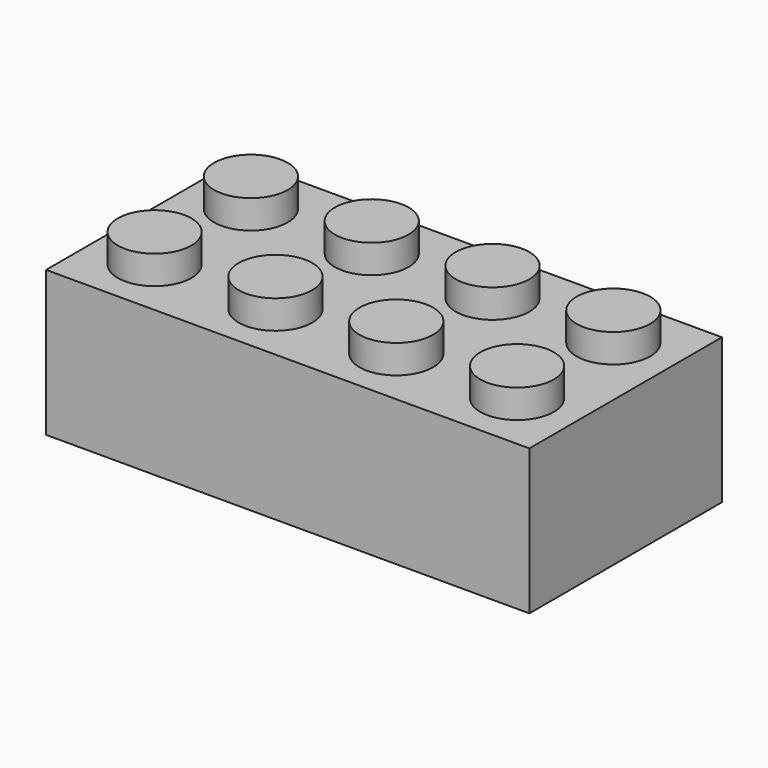
from build123d import *

# Parameters (mm, degrees)
F0_W     = 31.7754
F0_H     = 15.8242
F1_DEPTH = 9.5504
F2_R     = 2.420309
F3_DEPTH = 1.8796
F5_DEPTH = 6.477
F6_R     = 3.709792
F7_DEPTH = 6.477
F8_R     = 1.277131
F9_DEPTH = 0.0508


with BuildPart() as f1:
    # F0 (on Top) → F1 (new body)
    with BuildSketch(Plane.XY):
        Rectangle(F0_W, F0_H)
    extrude(amount=F1_DEPTH)

    # F2 (on face) → F3 (join)
    with BuildSketch(Plane.XY.offset(9.5504)):
        with Locations((-11.915775, 3.95605)):
            Circle(F2_R)
        with Locations((-3.971925, 3.95605)):
            Circle(F2_R)
        with Locations((3.971925, 3.95605)):
            Circle(F2_R)
        with Locations((11.915775, 3.95605)):
            Circle(F2_R)
        with Locations((11.915775, -3.95605)):
            Circle(F2_R)
        with Locations((3.971925, -3.95605)):
            Circle(F2_R)
        with Locations((-3.971925, -3.95605)):
            Circle(F2_R)
        with Locations((-11.915775, -3.95605)):
            Circle(F2_R)
    extrude(amount=F3_DEPTH)

    # F4 (on face) → F5 (cut)
    with BuildSketch(Plane(origin=(0, 0, 0), x_dir=(1, 0, 0), z_dir=(0, 0, -1))):
        Polygon((14.626832, 6.675115), (-12.304062, 6.675115), (-14.626832, 6.675115), (-14.626832, -6.675115), (14.626832, -6.675115), align=None)
    extrude(amount=-F5_DEPTH, mode=Mode.SUBTRACT)

    # F6 (on face) → F7 (join)
    with BuildSketch(Plane(origin=(0, 0, 6.477), x_dir=(1, 0, 0), z_dir=(0, 0, -1))):
        with Locations((-9.168312, 0)):
            Circle(F6_R)
        with BuildLine():
            ThreePointArc((0, -3.709792), (2.623219, -2.623219), (3.709792, 0))
            ThreePointArc((3.709792, 0), (2.623219, 2.623219), (0, 3.709792))
            ThreePointArc((0, 3.709792), (-3.709792, 0), (0, -3.709792))
        make_face()
        with Locations((9.168312, 0)):
            Circle(F6_R)
    extrude(amount=F7_DEPTH)

    # F8 (on face) → F9 (cut)
    with BuildSketch(Plane(origin=(0, 0, 6.477), x_dir=(1, 0, 0), z_dir=(0, 0, -1))):
        with Locations((-12.861121, 4.922554)):
            Circle(F8_R)
        with Locations((-5.436716, 4.922554)):
            Circle(F8_R)
        with Locations((5.436716, 4.922554)):
            Circle(F8_R)
        with Locations((12.861121, 4.922554)):
            Circle(F8_R)
        with Locations((12.861121, -4.922554)):
            Circle(F8_R)
        with Locations((5.436716, -4.922554)):
            Circle(F8_R)
        with Locations((-5.436716, -4.922554)):
            Circle(F8_R)
        with Locations((-12.861121, -4.922554)):
            Circle(F8_R)
    extrude(amount=-F9_DEPTH, mode=Mode.SUBTRACT)


solid = f1.part
